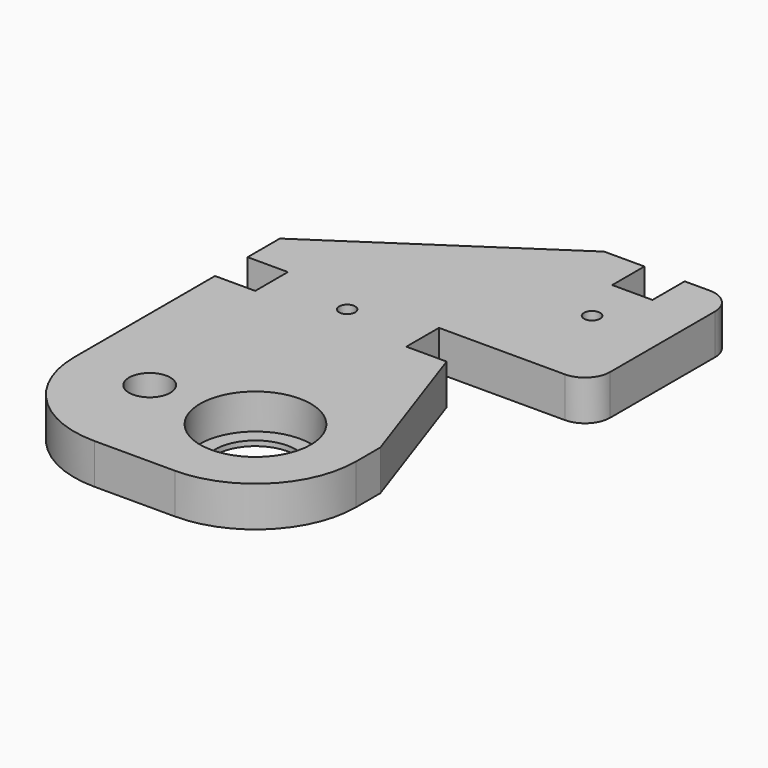
from build123d import *

# Parameters (mm, degrees)
CYLINDER_R     = 11
CYLINDER_DEPTH = 7
SKETCH_R       = 4.1
SKETCH_R_2     = 8
SKETCH_R_3     = 1.6
PAD_DEPTH      = 8


with BuildPart() as cylinder:
    # Cylinder → Cylinder (new body)
    with BuildSketch(Plane.XY.offset(1)):
        Circle(CYLINDER_R)
    extrude(amount=CYLINDER_DEPTH)


with BuildPart() as cut:
    # Sketch → Pad (new body)
    with BuildSketch(Plane.XY):
        with BuildLine():
            Line((1e-06, -20), (-16, -20))
            ThreePointArc((-36, 0), (-30.142135, -14.142136), (-16, -20))
            Line((-36, 0), (-36, 34.95))
            Line((-28, 34.95), (-36, 34.95))
            Line((-28, 39), (-28, 34.95))
            Line((-28, 39), (-28, 43.05))
            Line((-28, 43.05), (-36, 43.05))
            Line((-36, 51.05), (-36, 43.05))
            Line((-36, 51.05), (6, 79.05))
            Line((6, 79.05), (14, 79.05))
            Line((14, 79.05), (14, 71.05))
            Line((14, 71.05), (18, 71.05))
            Line((18, 71.05), (22, 71.05))
            Line((22, 71.05), (22, 79.05))
            Line((22, 79.05), (27, 79.05))
            ThreePointArc((32, 74.05), (30.535534, 77.585534), (27, 79.05))
            Line((32, 48.05), (32, 74.05))
            ThreePointArc((27, 43.05), (30.535534, 44.514466), (32, 48.05))
            Line((2, 43.05), (27, 43.05))
            Line((2, 39), (2, 43.05))
            Line((2, 34.95), (2, 39))
            Line((2, 34.95), (10, 34.95))
            Line((10, 34.95), (20, 6))
            Line((20, 0), (20, 6))
            ThreePointArc((1e-06, -20), (14.142136, -14.142136), (20, 0))
        make_face()
        with Locations((-21, 0)):
            Circle(SKETCH_R, mode=Mode.SUBTRACT)
        with Locations((0, 0)):
            Circle(SKETCH_R_2, mode=Mode.SUBTRACT)
        with Locations((-13, 39)):
            Circle(SKETCH_R_3, mode=Mode.SUBTRACT)
        with Locations((18, 61.05)):
            Circle(SKETCH_R_3, mode=Mode.SUBTRACT)
    extrude(amount=PAD_DEPTH)

    # Cut: cut Cylinder
    add(cylinder.part, mode=Mode.SUBTRACT)


solid = cut.part
